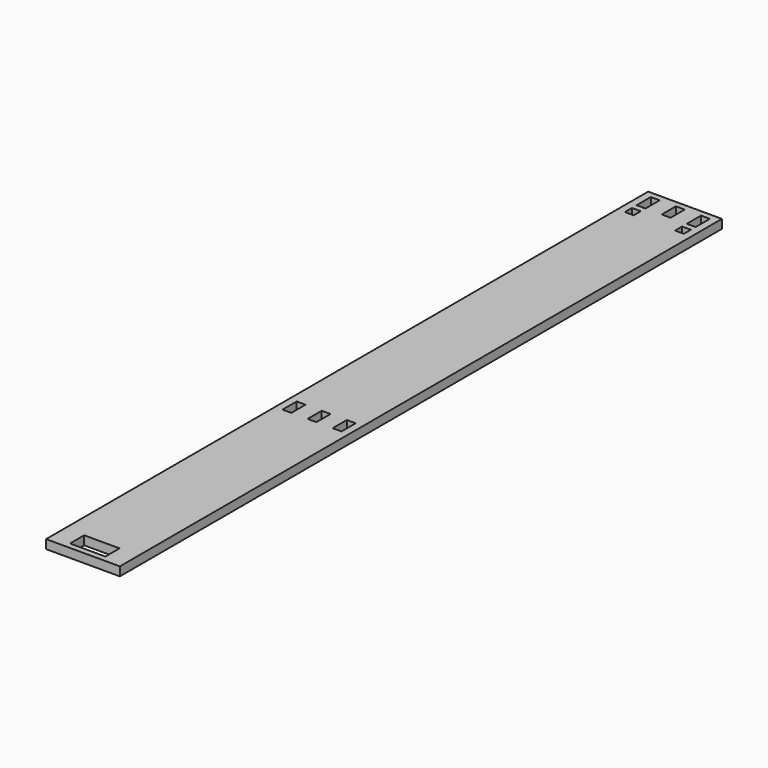
from build123d import *

# Parameters (mm, degrees)
F0_W     = 3
F0_H     = 6
F0_W_2   = 12
F0_H_2   = 3
F1_DEPTH = 1.5


with BuildPart() as f1:
    # F0 (on Top) → F1 (new body, symmetric)
    with BuildSketch(Plane.XY):
        Polygon((-12.5, 7), (-12.5, 0), (-12.5, -98), (12.5, -98), (12.5, 0), (12.5, 7), (12.5, 157), (10, 157), (-12.5, 157), align=None)
        with Locations((-8.5, 2)):
            Rectangle(F0_W, F0_H, mode=Mode.SUBTRACT)
        with Locations((0, -93)):
            Rectangle(F0_W_2, F0_H, mode=Mode.SUBTRACT)
        with Locations((0, 2)):
            Rectangle(F0_W, F0_H, mode=Mode.SUBTRACT)
        with Locations((8.5, 2)):
            Rectangle(F0_W, F0_H, mode=Mode.SUBTRACT)
        with Locations((-8.5, 145.5)):
            Rectangle(F0_W, F0_H_2, mode=Mode.SUBTRACT)
        with Locations((-8.5, 152)):
            Rectangle(F0_W, F0_H, mode=Mode.SUBTRACT)
        with Locations((0, 152)):
            Rectangle(F0_W, F0_H, mode=Mode.SUBTRACT)
        with Locations((8.5, 145.5)):
            Rectangle(F0_W, F0_H_2, mode=Mode.SUBTRACT)
        with Locations((8.5, 152)):
            Rectangle(F0_W, F0_H, mode=Mode.SUBTRACT)
    extrude(amount=F1_DEPTH, both=True)


solid = f1.part
